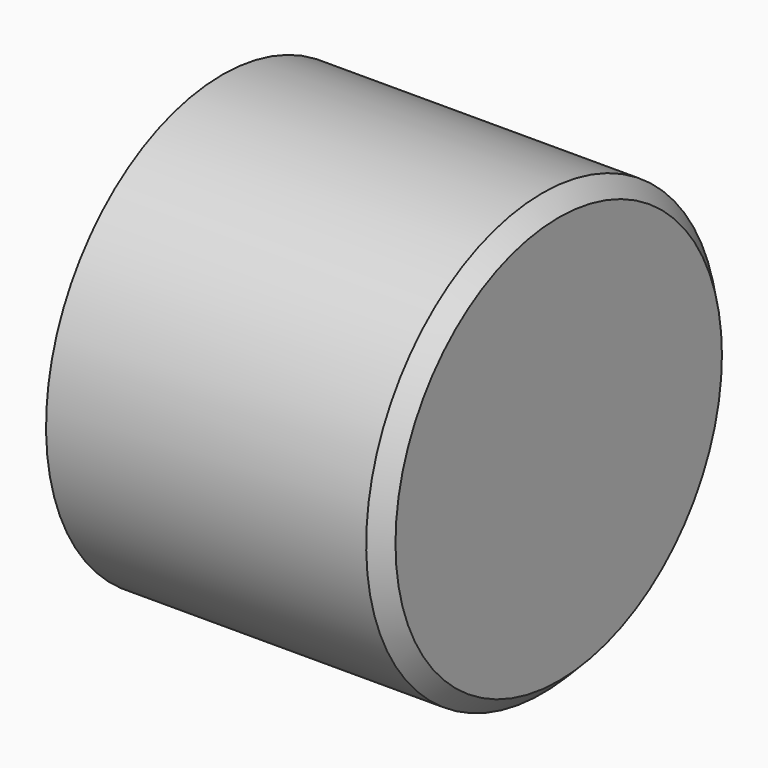
from build123d import *

# Parameters (mm, degrees)
F3_D     = 5.1054
F3_DEPTH = 12.7
F3_TIP   = 1.5338169022


with BuildPart() as f1:
    # F0 (on Front) → F1 (revolve)
    with BuildSketch(Plane.XZ):
        Polygon((0, 10.3124), (0, 0), (15.748, 0), (15.748, 9.5504), (14.986, 10.3124), align=None)
    revolve(axis=Axis((9.5057087019, 0, 0), (1, 0, 0)))

    # F3
    with Locations(Plane(origin=(0, 0, 0), x_dir=(0, -1, 0), z_dir=(-1, 0, 0))):
        with Locations((0, 0)):
            Hole(F3_D / 2, depth=F3_DEPTH)
            with Locations((0, 0, -(F3_DEPTH + F3_TIP / 2))):  # 118° drill point
                Cone(0, F3_D / 2, F3_TIP, mode=Mode.SUBTRACT)


solid = f1.part
